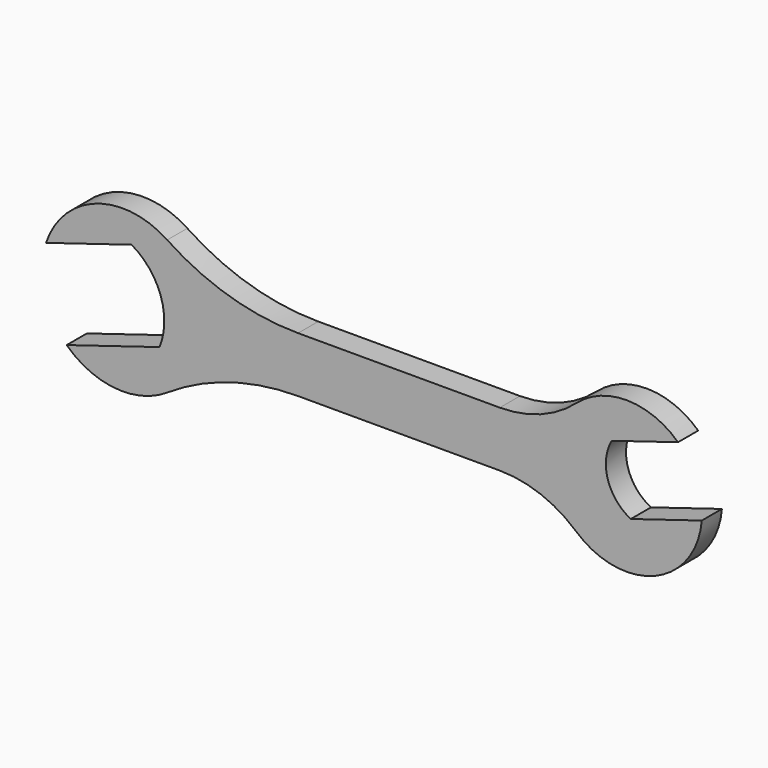
from build123d import *

# Parameters (mm, degrees)
F1_DEPTH = 5
F3_DEPTH = 25
F4_R     = 47
F5_R     = 23
F7_DEPTH = 25


with BuildPart() as f1:
    # F0 (on Front) → F1 (new body)
    with BuildSketch(Plane.XZ):
        with BuildLine():
            Line((-50, -5.5), (-50, 5.5))
            Line((-50, 5.5), (-34.9750207987, 5.5))
            ThreePointArc((-34.9750207987, 5.5), (-66, 0), (-34.9750207987, -5.5))
            Line((-34.9750207987, -5.5), (-50, -5.5))
        make_face()
        with BuildLine():
            Line((-34.9750207987, 5.5), (-50, 5.5))
            Line((-50, 5.5), (-50, -5.5))
            Line((-50, -5.5), (-34.9750207987, -5.5))
            ThreePointArc((-34.9750207987, -5.5), (-34.2456408061, -2.7928777971), (-34, 0))
            ThreePointArc((-34, 0), (-34.2456408061, 2.7928777971), (-34.9750207987, 5.5))
        make_face()
        with BuildLine():
            Line((36.044714263, 5.5), (-34.9750207987, 5.5))
            ThreePointArc((-34.9750207987, 5.5), (-34.2456408061, 2.7928777971), (-34, 0))
            ThreePointArc((-34, 0), (-34.2456408061, -2.7928777971), (-34.9750207987, -5.5))
            Line((-34.9750207987, -5.5), (36.044714263, -5.5))
            ThreePointArc((36.044714263, -5.5), (35, 0), (36.044714263, 5.5))
        make_face()
        with BuildLine():
            ThreePointArc((65, 0), (52.7991707652, 14.7365071515), (36.044714263, 5.5))
            Line((36.044714263, 5.5), (50, 5.5))
            Line((50, 5.5), (50, -5.5))
            Line((50, -5.5), (36.044714263, -5.5))
            ThreePointArc((36.044714263, -5.5), (52.7991707652, -14.7365071515), (65, 0))
        make_face()
        with BuildLine():
            Line((50, 5.5), (36.044714263, 5.5))
            ThreePointArc((36.044714263, 5.5), (35, 0), (36.044714263, -5.5))
            Line((36.044714263, -5.5), (50, -5.5))
            Line((50, -5.5), (50, 5.5))
        make_face()
    extrude(amount=F1_DEPTH)

    # F2 (on face) → F3 (cut)
    with BuildSketch(Plane.XZ.offset(5)):
        with BuildLine():
            Line((-95.8441084985, -22.139607746), (-42.6692659416, -5.8824268946))
            ThreePointArc((-42.6692659416, -5.8824268946), (-42.4482601938, 3.1912614483), (-48.2176659008, 10.1980168652))
            Line((-48.2176659008, 10.1980168652), (-100.8144274788, -5.8824268946))
            Line((-100.8144274788, -5.8824268946), (-95.8441084985, -22.139607746))
        make_face()
    extrude(amount=-F3_DEPTH, mode=Mode.SUBTRACT)

    # F4
    f4_edges = [f1.edges().sort_by_distance(p)[0] for p in [
        (-34.975021, -2.5, 5.5),
        (-34.975021, -2.5, -5.5),
    ]]
    fillet(f4_edges, radius=F4_R)

    # F5
    f5_edges = [f1.edges().sort_by_distance(p)[0] for p in [
        (36.044714, -2.5, -5.5),
        (36.044714, -2.5, 5.5),
    ]]
    fillet(f5_edges, radius=F5_R)

    # F6 (on face) → F7 (cut)
    with BuildSketch(Plane.XZ.offset(5)):
        with BuildLine():
            Line((72.8835861022, 14.825997855), (47.0633576912, 6.9319618275))
            ThreePointArc((47.0633576912, 6.9319618275), (46.3099800667, -0.0953652442), (50.8641898526, -5.5))
            Line((50.8641898526, -5.5), (76.6844182636, 2.3940360275))
            Line((76.6844182636, 2.3940360275), (72.8835861022, 14.825997855))
        make_face()
    extrude(amount=-F7_DEPTH, mode=Mode.SUBTRACT)


solid = f1.part
